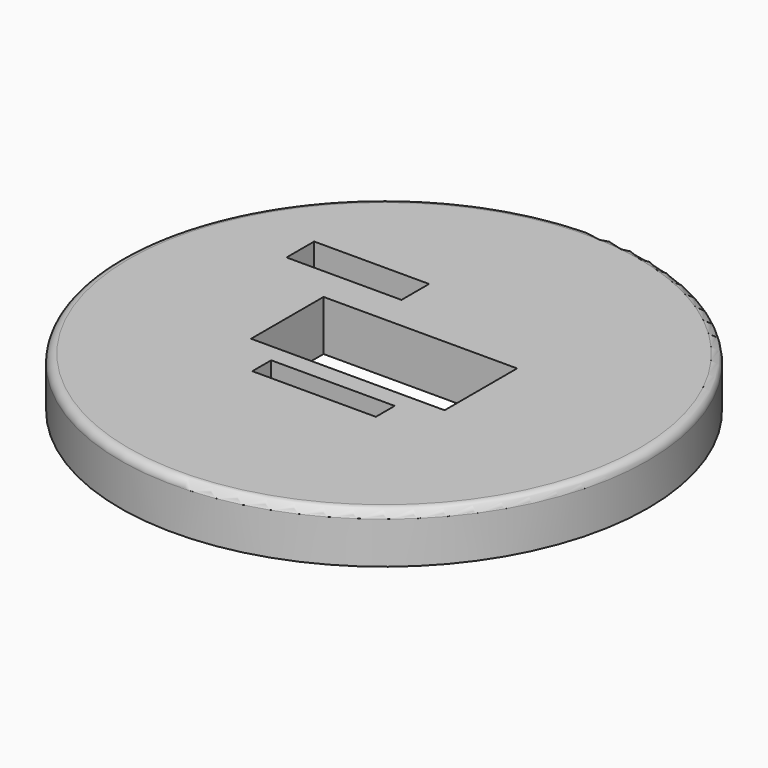
from build123d import *

# Parameters (mm, degrees)
F0_R     = 31.5
F0_W     = 14.740614
F0_H     = 2.816942
F0_W_2   = 13.716752
F0_H_2   = 4.118822
F0_W_3   = 23.100224
F0_H_3   = 10.811982
F1_DEPTH = 6
F2_R     = 1


with BuildPart() as f1:
    # F0 (on Top) → F1 (new body)
    with BuildSketch(Plane.XY):
        Circle(F0_R)
        with Locations((0, -9.035591)):
            Rectangle(F0_W, F0_H, mode=Mode.SUBTRACT)
        with Locations((-12.358571, 11.529837)):
            Rectangle(F0_W_2, F0_H_2, mode=Mode.SUBTRACT)
        Rectangle(F0_W_3, F0_H_3, mode=Mode.SUBTRACT)
    extrude(amount=F1_DEPTH)

    # F2
    f2_edges = [f1.edges().sort_by_distance(p)[0] for p in [
        (-31.5, 0, 6),
    ]]
    fillet(f2_edges, radius=F2_R)


solid = f1.part
